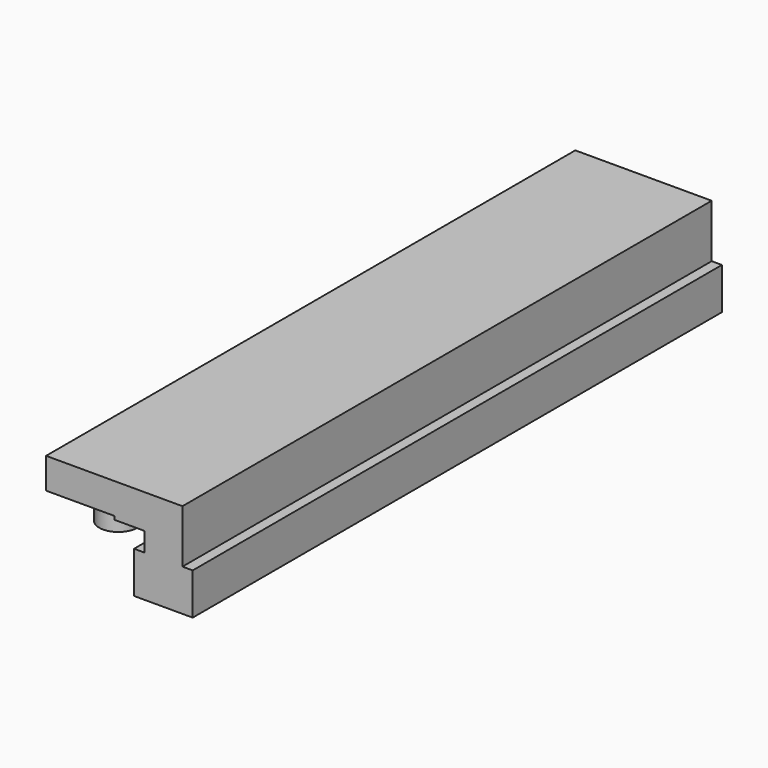
from build123d import *

# Parameters (mm, degrees)
F0_W     = 8.6
F0_H     = 97
F1_DEPTH = 6.1
F2_W     = 5.6
F2_H     = 97
F3_DEPTH = 2.8
F4_W     = 10
F4_H     = 97
F4_W_2   = 5.6
F4_W_3   = 1.5
F4_W_4   = 2.9
F5_DEPTH = 5
F6_DEPTH = 0.5
F7_R     = 2.8
F8_DEPTH = 4.6


with BuildPart() as f1:
    # F0 (on Top) → F1 (new body)
    with BuildSketch(Plane.XY):
        Rectangle(F0_W, F0_H)
        Rectangle(F0_W, F0_H)
    extrude(amount=F1_DEPTH)

    # F2 (on face) → F3 (join)
    with BuildSketch(Plane.XY.offset(6.1)):
        Rectangle(F2_W, F2_H)
    extrude(amount=F3_DEPTH)

    # F4 (on face) → F5 (join)
    with BuildSketch(Plane.XY.offset(8.9)):
        with Locations((-12.2, 0)):
            Rectangle(F4_W, F4_H)
        Rectangle(F4_W_2, F4_H)
        with Locations((-3.55, 0)):
            Rectangle(F4_W_3, F4_H)
        with Locations((-5.75, 0)):
            Rectangle(F4_W_4, F4_H)
    extrude(amount=F5_DEPTH)

    # F4 (on face) → F6 (cut)
    with BuildSketch(Plane.XY.offset(8.9)):
        with Locations((-12.2, 0)):
            Rectangle(F4_W, F4_H)
    extrude(amount=F6_DEPTH, mode=Mode.SUBTRACT)


with BuildPart() as f8:
    # F7 (on face) → F8 (new body)
    with BuildSketch(Plane.XY.offset(8.9)):
        with Locations((-12.2, 18.5)):
            Circle(F7_R)
        with Locations((-12.2, -1.5)):
            Circle(F7_R)
        with Locations((-12.2, -21.5)):
            Circle(F7_R)
        with Locations((-12.2, -41.5)):
            Circle(F7_R)
        with Locations((-12.2, 38.5)):
            Circle(F7_R)
    extrude(amount=-F8_DEPTH)


solid = Compound([f1.part, f8.part])
